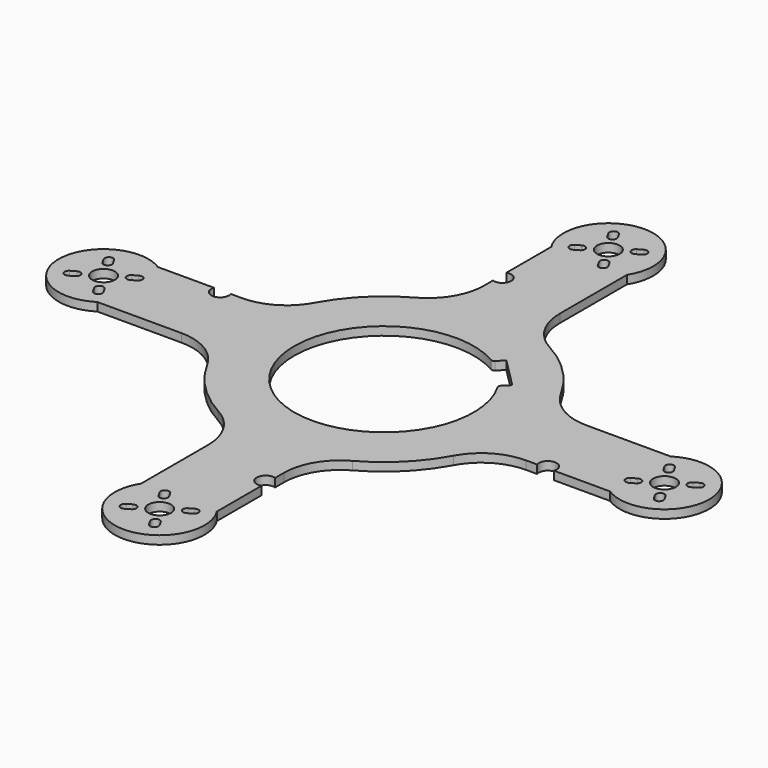
from build123d import *

# Parameters (mm, degrees)
F0_R     = 4.05
F1_DEPTH = 3


with BuildPart() as f1:
    # F0 (on Top) → F1 (new body)
    with BuildSketch(Plane.XY):
        with BuildLine():
            Line((71.412218, -13.5), (91.412218, -13.5))
            ThreePointArc((91.412218, -13.5), (116, 0), (91.412218, 13.5))
            Line((91.412218, 13.5), (71.412218, 13.5))
            Line((71.412218, 13.5), (61.463404, 13.5))
            ThreePointArc((61.463404, 13.5), (51.251366, 16.303655), (43.902431, 23.928571))
            ThreePointArc((43.902431, 23.928571), (35.355339, 35.355339), (23.928571, 43.902431))
            ThreePointArc((23.928571, 43.902431), (16.303655, 51.251366), (13.5, 61.463404))
            Line((13.5, 61.463404), (13.5, 91.412218))
            ThreePointArc((13.5, 91.412218), (0, 116), (-13.5, 91.412218))
            Line((-13.5, 91.412218), (-13.5, 71.412218))
            ThreePointArc((-13.5, 71.412218), (-9.337722, 68.412218), (-13.5, 65.412218))
            Line((-13.5, 65.412218), (-13.5, 61.463404))
            ThreePointArc((-13.5, 61.463404), (-16.303655, 51.251366), (-23.928571, 43.902431))
            ThreePointArc((-23.928571, 43.902431), (-35.355339, 35.355339), (-43.902431, 23.928571))
            ThreePointArc((-43.902431, 23.928571), (-51.251366, 16.303655), (-61.463404, 13.5))
            Line((-61.463404, 13.5), (-65.412218, 13.5))
            ThreePointArc((-65.412218, 13.5), (-68.412218, 9.337722), (-71.412218, 13.5))
            Line((-71.412218, 13.5), (-91.412218, 13.5))
            ThreePointArc((-91.412218, 13.5), (-116, 0), (-91.412218, -13.5))
            Line((-91.412218, -13.5), (-71.412218, -13.5))
            Line((-71.412218, -13.5), (-65.412218, -13.5))
            Line((-65.412218, -13.5), (-61.463404, -13.5))
            ThreePointArc((-61.463404, -13.5), (-51.251366, -16.303655), (-43.902431, -23.928571))
            ThreePointArc((-43.902431, -23.928571), (-35.355339, -35.355339), (-23.928571, -43.902431))
            ThreePointArc((-23.928571, -43.902431), (-16.303655, -51.251366), (-13.5, -61.463404))
            Line((-13.5, -61.463404), (-13.5, -91.412218))
            ThreePointArc((-13.5, -91.412218), (0, -116), (13.5, -91.412218))
            Line((13.5, -91.412218), (13.5, -71.412218))
            ThreePointArc((13.5, -71.412218), (9.337722, -68.412218), (13.5, -65.412218))
            Line((13.5, -65.412218), (13.5, -61.463404))
            ThreePointArc((13.5, -61.463404), (16.303655, -51.251366), (23.928571, -43.902431))
            ThreePointArc((23.928571, -43.902431), (35.355339, -35.355339), (43.902431, -23.928571))
            ThreePointArc((43.902431, -23.928571), (51.251366, -16.303655), (61.463404, -13.5))
            Line((61.463404, -13.5), (65.412218, -13.5))
            ThreePointArc((65.412218, -13.5), (68.412218, -9.337722), (71.412218, -13.5))
        make_face()
        with BuildLine():
            Line((-9.193748, -103.575962), (-7.461697, -102.575962))
            ThreePointArc((-7.461697, -102.575962), (-5.412659, -103.125), (-5.961697, -105.174038))
            Line((-5.961697, -105.174038), (-7.693748, -106.174038))
            ThreePointArc((-7.693748, -106.174038), (-9.742786, -105.625), (-9.193748, -103.575962))
        make_face(mode=Mode.SUBTRACT)
        with BuildLine():
            ThreePointArc((-2.575962, -92.538303), (-3.125, -94.587341), (-5.174038, -94.038303))
            Line((-5.174038, -94.038303), (-6.174038, -92.306252))
            ThreePointArc((-6.174038, -92.306252), (-5.625, -90.257214), (-3.575962, -90.806252))
            Line((-3.575962, -90.806252), (-2.575962, -92.538303))
        make_face(mode=Mode.SUBTRACT)
        with BuildLine():
            Line((-109.193748, -3.575962), (-107.461697, -2.575962))
            ThreePointArc((-107.461697, -2.575962), (-105.412659, -3.125), (-105.961697, -5.174038))
            Line((-105.961697, -5.174038), (-107.693748, -6.174038))
            ThreePointArc((-107.693748, -6.174038), (-109.742786, -5.625), (-109.193748, -3.575962))
        make_face(mode=Mode.SUBTRACT)
        with BuildLine():
            Line((-96.424038, -9.193748), (-97.424038, -7.461697))
            ThreePointArc((-97.424038, -7.461697), (-96.875, -5.412659), (-94.825962, -5.961697))
            Line((-94.825962, -5.961697), (-93.825962, -7.693748))
            ThreePointArc((-93.825962, -7.693748), (-94.375, -9.742786), (-96.424038, -9.193748))
        make_face(mode=Mode.SUBTRACT)
        with BuildLine():
            Line((3.575962, -109.193748), (2.575962, -107.461697))
            ThreePointArc((2.575962, -107.461697), (3.125, -105.412659), (5.174038, -105.961697))
            Line((5.174038, -105.961697), (6.174038, -107.693748))
            ThreePointArc((6.174038, -107.693748), (5.625, -109.742786), (3.575962, -109.193748))
        make_face(mode=Mode.SUBTRACT)
        with Locations((0, -100)):
            Circle(F0_R, mode=Mode.SUBTRACT)
        with BuildLine():
            Line((9.193748, -96.424038), (7.461697, -97.424038))
            ThreePointArc((7.461697, -97.424038), (5.412659, -96.875), (5.961697, -94.825962))
            Line((5.961697, -94.825962), (7.693748, -93.825962))
            ThreePointArc((7.693748, -93.825962), (9.742786, -94.375), (9.193748, -96.424038))
        make_face(mode=Mode.SUBTRACT)
        with BuildLine():
            ThreePointArc((92.538303, -2.575962), (94.587341, -3.125), (94.038303, -5.174038))
            Line((94.038303, -5.174038), (92.306252, -6.174038))
            ThreePointArc((92.306252, -6.174038), (90.257214, -5.625), (90.806252, -3.575962))
            Line((90.806252, -3.575962), (92.538303, -2.575962))
        make_face(mode=Mode.SUBTRACT)
        with BuildLine():
            ThreePointArc((102.575962, -7.461697), (103.125, -5.412659), (105.174038, -5.961697))
            Line((105.174038, -5.961697), (106.174038, -7.693748))
            ThreePointArc((106.174038, -7.693748), (105.625, -9.742786), (103.575962, -9.193748))
            Line((103.575962, -9.193748), (102.575962, -7.461697))
        make_face(mode=Mode.SUBTRACT)
        with BuildLine():
            Line((-103.575962, 9.193748), (-102.575962, 7.461697))
            ThreePointArc((-102.575962, 7.461697), (-103.125, 5.412659), (-105.174038, 5.961697))
            Line((-105.174038, 5.961697), (-106.174038, 7.693748))
            ThreePointArc((-106.174038, 7.693748), (-105.625, 9.742786), (-103.575962, 9.193748))
        make_face(mode=Mode.SUBTRACT)
        with Locations((-100, 0)):
            Circle(F0_R, mode=Mode.SUBTRACT)
        with BuildLine():
            ThreePointArc((-92.538303, 2.575962), (-94.587341, 3.125), (-94.038303, 5.174038))
            Line((-94.038303, 5.174038), (-92.306252, 6.174038))
            ThreePointArc((-92.306252, 6.174038), (-90.257214, 5.625), (-90.806252, 3.575962))
            Line((-90.806252, 3.575962), (-92.538303, 2.575962))
        make_face(mode=Mode.SUBTRACT)
        with BuildLine():
            Line((-9.193748, 96.424038), (-7.461697, 97.424038))
            ThreePointArc((-7.461697, 97.424038), (-5.412659, 96.875), (-5.961697, 94.825962))
            Line((-5.961697, 94.825962), (-7.693748, 93.825962))
            ThreePointArc((-7.693748, 93.825962), (-9.742786, 94.375), (-9.193748, 96.424038))
        make_face(mode=Mode.SUBTRACT)
        with BuildLine():
            Line((-3.575962, 109.193748), (-2.575962, 107.461697))
            ThreePointArc((-2.575962, 107.461697), (-3.125, 105.412659), (-5.174038, 105.961697))
            Line((-5.174038, 105.961697), (-6.174038, 107.693748))
            ThreePointArc((-6.174038, 107.693748), (-5.625, 109.742786), (-3.575962, 109.193748))
        make_face(mode=Mode.SUBTRACT)
        with BuildLine():
            ThreePointArc((27.692199, 16.035651), (-22.627417, -22.627417), (16.035651, 27.692199))
            ThreePointArc((16.035651, 27.692199), (16.666653, 27.566052), (17.243872, 27.850474))
            Line((17.243872, 27.850474), (19.522285, 30.128887))
            Line((19.522285, 30.128887), (30.128887, 19.522285))
            Line((30.128887, 19.522285), (27.850474, 17.243872))
            ThreePointArc((27.850474, 17.243872), (27.566052, 16.666653), (27.692199, 16.035651))
        make_face(mode=Mode.SUBTRACT)
        with Locations((100, 0)):
            Circle(F0_R, mode=Mode.SUBTRACT)
        with BuildLine():
            Line((96.424038, 9.193748), (97.424038, 7.461697))
            ThreePointArc((97.424038, 7.461697), (96.875, 5.412659), (94.825962, 5.961697))
            Line((94.825962, 5.961697), (93.825962, 7.693748))
            ThreePointArc((93.825962, 7.693748), (94.375, 9.742786), (96.424038, 9.193748))
        make_face(mode=Mode.SUBTRACT)
        with BuildLine():
            ThreePointArc((107.461697, 2.575962), (105.412659, 3.125), (105.961697, 5.174038))
            Line((105.961697, 5.174038), (107.693748, 6.174038))
            ThreePointArc((107.693748, 6.174038), (109.742786, 5.625), (109.193748, 3.575962))
            Line((109.193748, 3.575962), (107.461697, 2.575962))
        make_face(mode=Mode.SUBTRACT)
        with BuildLine():
            ThreePointArc((2.575962, 92.538303), (3.125, 94.587341), (5.174038, 94.038303))
            Line((5.174038, 94.038303), (6.174038, 92.306252))
            ThreePointArc((6.174038, 92.306252), (5.625, 90.257214), (3.575962, 90.806252))
            Line((3.575962, 90.806252), (2.575962, 92.538303))
        make_face(mode=Mode.SUBTRACT)
        with Locations((0, 100)):
            Circle(F0_R, mode=Mode.SUBTRACT)
        with BuildLine():
            Line((9.193748, 103.575962), (7.461697, 102.575962))
            ThreePointArc((7.461697, 102.575962), (5.412659, 103.125), (5.961697, 105.174038))
            Line((5.961697, 105.174038), (7.693748, 106.174038))
            ThreePointArc((7.693748, 106.174038), (9.742786, 105.625), (9.193748, 103.575962))
        make_face(mode=Mode.SUBTRACT)
    extrude(amount=F1_DEPTH)


solid = f1.part
